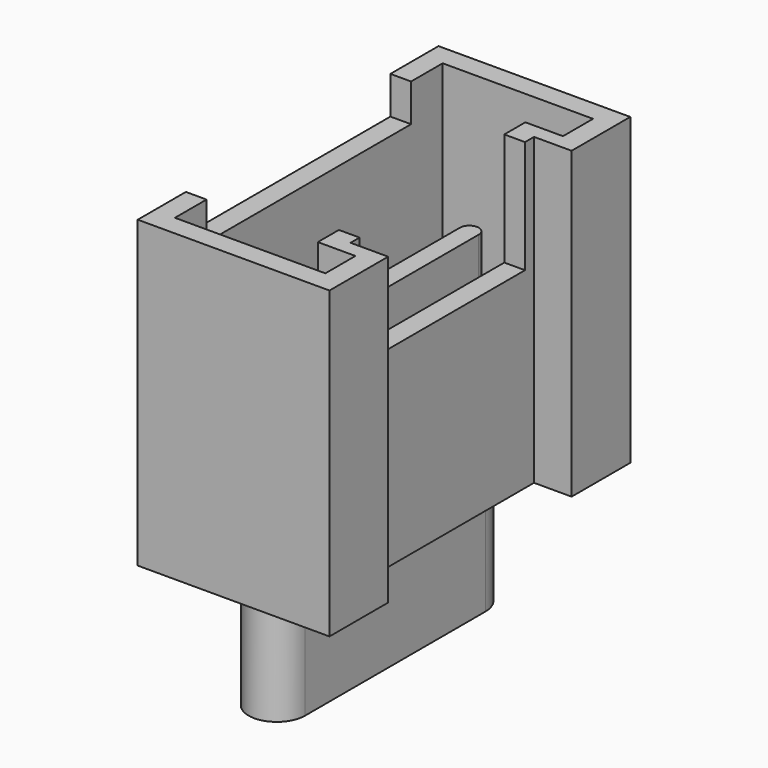
from build123d import *

# Parameters (mm, degrees)
PAD010_DEPTH            = 8.1
POCKET007_DEPTH         = 7
SKETCH024_W             = 6.8
SKETCH024_H             = 5
POCKET009_DEPTH         = 1
SKETCH018_W             = 5.5
SKETCH018_H             = 3
POCKET010_DEPTH         = 3
PAD013_DEPTH            = 4
PAD011_DEPTH            = 3.4
BODY014_PLACEMENT_ANGLE = 90


with BuildPart() as part:
    # Sketch022 → Pad010 (new body)
    with BuildSketch(Plane.XY):
        Polygon((-5, 0), (-3.05, 0), (-3.05, 1), (3.05, 1), (3.05, 0), (5, 0), (5, 5.1), (-5, 5.1), align=None)
    extrude(amount=PAD010_DEPTH)

    # Sketch021 (on Face10 of Pad010) → Pocket007 (cut)
    with BuildSketch(Plane.XY.offset(8.1)):
        Polygon((-4.45, 0.55), (-3.45, 0.55), (-3.45, 1.55), (3.45, 1.55), (3.45, 0.55), (4.45, 0.55), (4.45, 4.55), (-4.45, 4.55), align=None)
    extrude(amount=-POCKET007_DEPTH, mode=Mode.SUBTRACT)

    # Sketch024 (on Face5 of Pocket007) → Pocket009 (cut)
    with BuildSketch(Plane.XY.offset(8.1)):
        with Locations((0, 5.5)):
            Rectangle(SKETCH024_W, SKETCH024_H)
    extrude(amount=-POCKET009_DEPTH, mode=Mode.SUBTRACT)

    # Sketch018 (on Face5 of Pocket009) → Pocket010 (cut)
    with BuildSketch(Plane.XY.offset(8.1)):
        with Locations((0, 1.5)):
            Rectangle(SKETCH018_W, SKETCH018_H)
    extrude(amount=-POCKET010_DEPTH, mode=Mode.SUBTRACT)

    # Sketch023 (on Face26 of Pocket010) → Pad013 (join)
    with BuildSketch(Plane.XY.offset(1.1)):
        with BuildLine():
            ThreePointArc((-3.4, 3.25), (-3.65, 3), (-3.4, 2.75))
            Line((-3.4, 2.75), (3.4, 2.75))
            ThreePointArc((3.4, 2.75), (3.65, 3), (3.4, 3.25))
            Line((-3.4, 3.25), (3.4, 3.25))
        make_face()
    extrude(amount=PAD013_DEPTH)

    # Sketch019 → Pad011 (join)
    with BuildSketch(Plane.XY):
        with BuildLine():
            ThreePointArc((-3, 3.75), (-3.75, 3), (-3, 2.25))
            Line((-3, 2.25), (3, 2.25))
            ThreePointArc((3, 2.25), (3.75, 3), (3, 3.75))
            Line((-3, 3.75), (3, 3.75))
        make_face()
    extrude(amount=-PAD011_DEPTH)


with BuildPart() as part_1:
    # Body014 placement: moved
    add(part.part.moved(Location((-13.8, 0, 1.6))).rotate(Axis((-13.8, 0, 1.6), (0, 0, 1)), BODY014_PLACEMENT_ANGLE))


with BuildPart() as part_2:
    # Clone007 placement: moved
    add(part_1.part.moved(Location((-0.2, 0, 0))))


with BuildPart() as part_3:
    # Body015 placement: moved
    add(part_2.part.moved(Location((12.6, 0, 0))))


solid = part_3.part
